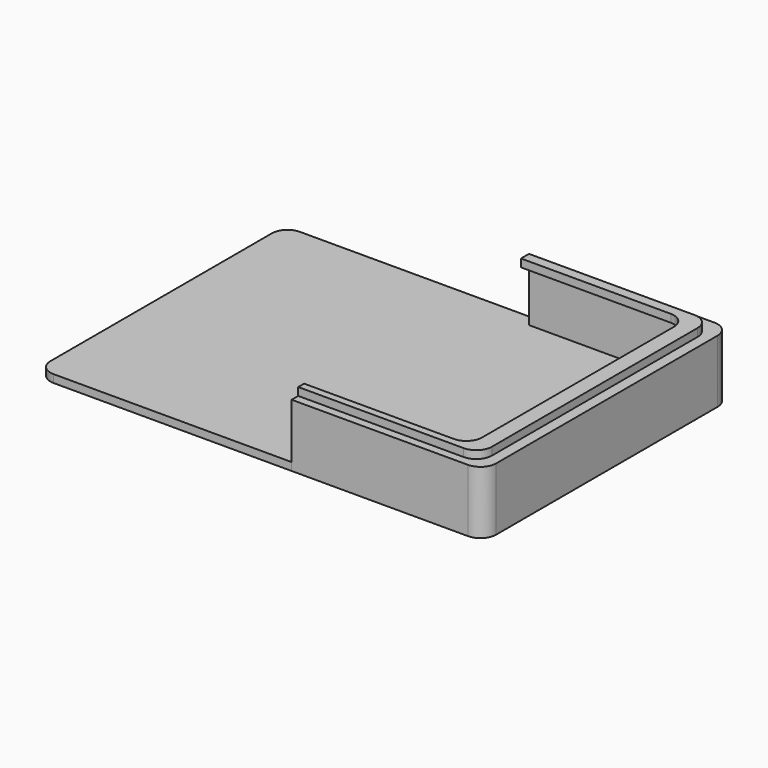
from build123d import *

# Parameters (mm, degrees)
F1_DEPTH = 1
F3_DEPTH = 8
F7_DEPTH = 1


with BuildPart() as f1:
    # F0 (on Top) → F1 (new body)
    with BuildSketch(Plane.XY):
        with BuildLine():
            Line((22.4782363355, 19.2312198371), (-30.3556400836, 19.2312198371))
            ThreePointArc((-30.3556400836, 19.2312198371), (-31.7698536459, 18.6454333994), (-32.3556400836, 17.2312198371))
            Line((-32.3556400836, 17.2312198371), (-32.3556400836, -18.0538347155))
            ThreePointArc((-32.3556400836, -18.0538347155), (-31.7698536459, -19.4680482779), (-30.3556400836, -20.0538347155))
            Line((-30.3556400836, -20.0538347155), (22.4782363355, -20.0538347155))
            ThreePointArc((22.4782363355, -20.0538347155), (23.8924498979, -19.4680482779), (24.4782363355, -18.0538347155))
            Line((24.4782363355, -18.0538347155), (24.4782363355, 17.2312198371))
            ThreePointArc((24.4782363355, 17.2312198371), (23.8924498979, 18.6454333994), (22.4782363355, 19.2312198371))
        make_face()
    extrude(amount=F1_DEPTH)


with BuildPart() as f3:
    # F2 (on face) → F3 (new body)
    with BuildSketch(Plane.XY):
        with BuildLine():
            Line((24.4782363355, -18.0538347155), (24.4782363355, 17.2312198371))
            ThreePointArc((24.4782363355, 17.2312198371), (23.8924498979, 18.6454333994), (22.4782363355, 19.2312198371))
            Line((22.4782363355, 19.2312198371), (0, 19.2312198371))
            Line((0, 19.2312198371), (0, 17.772866413))
            Line((0, 17.772866413), (21.1001163512, 17.772866413))
            ThreePointArc((21.1001163512, 17.772866413), (22.5143299136, 17.1870799754), (23.1001163512, 15.772866413))
            Line((23.1001163512, 15.772866413), (23.1001163512, -17.0036967397))
            ThreePointArc((23.1001163512, -17.0036967397), (22.5143299136, -18.417910302), (21.1001163512, -19.0036967397))
            Line((21.1001163512, -19.0036967397), (0, -19.0036967397))
            Line((0, -19.0036967397), (0, -20.0538347155))
            Line((0, -20.0538347155), (22.4782363355, -20.0538347155))
            ThreePointArc((22.4782363355, -20.0538347155), (23.8924498979, -19.4680482779), (24.4782363355, -18.0538347155))
        make_face()
    extrude(amount=F3_DEPTH)


with BuildPart() as f7:
    # F6 (on plane+point) → F7 (new body)
    with BuildSketch(Plane.XY.offset(8)):
        with BuildLine():
            Line((0, -19.0036967397), (21.1001163512, -19.0036967397))
            ThreePointArc((21.1001163512, -19.0036967397), (22.5143299136, -18.417910302), (23.1001163512, -17.0036967397))
            Line((23.1001163512, -17.0036967397), (23.1001163512, 15.772866413))
            ThreePointArc((23.1001163512, 15.772866413), (22.5143299136, 17.1870799754), (21.1001163512, 17.772866413))
            Line((21.1001163512, 17.772866413), (0, 17.772866413))
            Line((0, 17.772866413), (0, 16.4962187409))
            Line((0, 16.4962187409), (19.0997462398, 16.4962187409))
            ThreePointArc((19.0997462398, 16.4962187409), (20.5140906382, 15.9103014552), (21.0997462056, 14.4958486638))
            Line((21.0997462056, 14.4958486638), (21.0940905789, -16.0687321046))
            ThreePointArc((21.0940905789, -16.0687321046), (20.5081733274, -17.4827064258), (19.0940906131, -18.0683620274))
            Line((19.0940906131, -18.0683620274), (0, -18.0683620274))
            Line((0, -18.0683620274), (0, -19.0036967397))
        make_face()
    extrude(amount=F7_DEPTH)


solid = Compound([f1.part, f3.part, f7.part])
